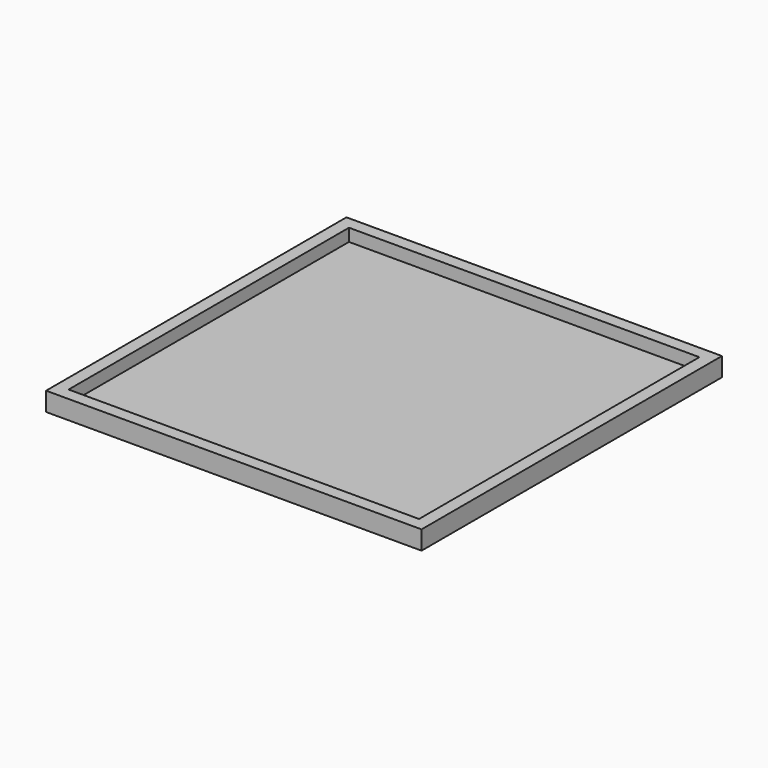
from build123d import *

# Parameters (mm, degrees)
BOX001_W     = 280
BOX001_H     = 280
BOX001_DEPTH = 5
SKETCH_W     = 300
SKETCH_H     = 300
SKETCH_W_2   = 280
SKETCH_H_2   = 280
PAD_DEPTH    = 15


with BuildPart() as cube001:
    # Box001 → Box001 (new body)
    with BuildSketch(Plane(origin=(-140, -140, 0), x_dir=(1, 0, 0), z_dir=(0, 0, 1))):
        with Locations((140, 140)):
            Rectangle(BOX001_W, BOX001_H)
    extrude(amount=BOX001_DEPTH)


with BuildPart() as board_frame:
    # Sketch → Pad (new body)
    with BuildSketch(Plane.XY):
        Rectangle(SKETCH_W, SKETCH_H)
        Rectangle(SKETCH_W_2, SKETCH_H_2, mode=Mode.SUBTRACT)
    extrude(amount=PAD_DEPTH)

    # Fusion: union Cube001
    add(cube001.part)


solid = board_frame.part
